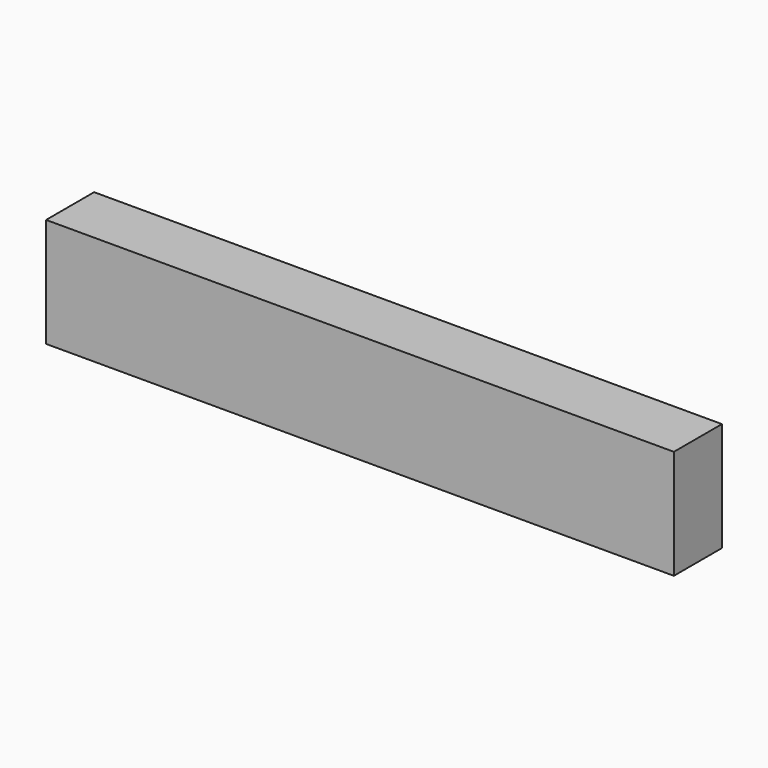
from build123d import *

# Parameters (mm, degrees)
F0_W     = 10
F0_H     = 8
F1_DEPTH = 230


with BuildPart() as f1:
    # F0 (on Right) → F1 (new body)
    with BuildSketch(Plane.YZ):
        with Locations((-25.646479, 59.875974)):
            Rectangle(F0_W, F0_H)
        Polygon((-8.646479, 67.875974), (-30.646479, 67.875974), (-30.646479, 63.875974), (-20.646479, 63.875974), (-20.646479, 55.875974), (-30.646479, 55.875974), (-30.646479, 27.875974), (-8.646479, 27.875974), align=None)
    extrude(amount=F1_DEPTH)


solid = f1.part
